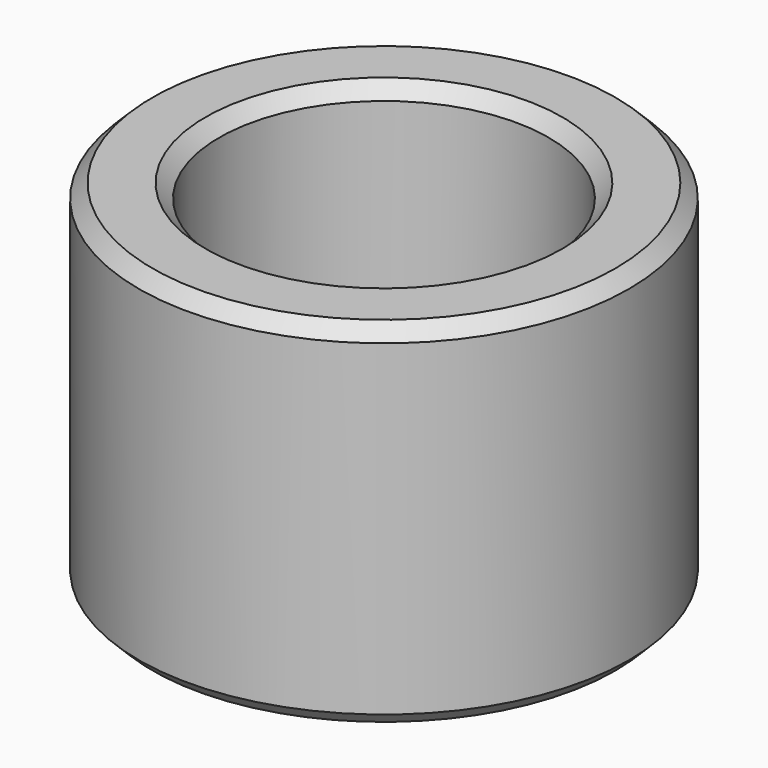
from build123d import *

# Parameters (mm, degrees)
F0_R     = 9
F0_R_2   = 6.05
F1_DEPTH = 13
F2_SIZE  = 0.5


with BuildPart() as f1:
    # F0 (on Top) → F1 (new body)
    with BuildSketch(Plane.XY):
        Circle(F0_R)
        Circle(F0_R_2, mode=Mode.SUBTRACT)
    extrude(amount=F1_DEPTH)

    # F2
    f2_edges = [f1.edges().sort_by_distance(p)[0] for p in [
        (6.05, 0, 6.5),
        (-6.05, 0, 0),
        (-6.05, 0, 13),
        (9, 0, 6.5),
        (-9, 0, 0),
        (-9, 0, 13),
    ]]
    chamfer(f2_edges, length=F2_SIZE)


solid = f1.part
